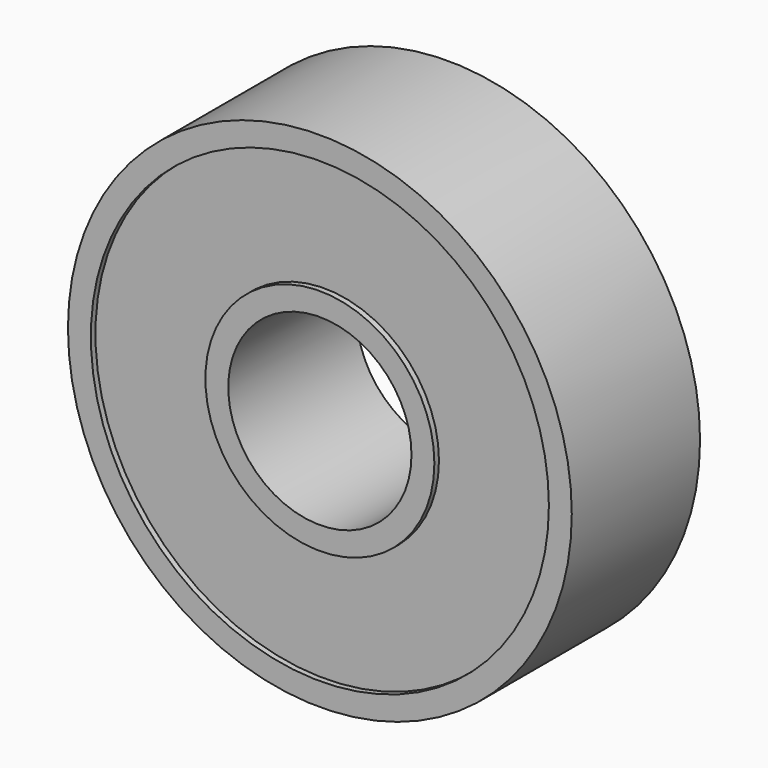
from build123d import *

# Parameters (mm, degrees)
F0_R     = 5
F0_R_2   = 4
F1_DEPTH = 3.5
F0_R_3   = 11
F0_R_4   = 10
F2_DEPTH = 3.25


with BuildPart() as f1:
    # F0 (on Front) → F1 (new body, symmetric)
    with BuildSketch(Plane.XZ):
        Circle(F0_R)
        Circle(F0_R_2, mode=Mode.SUBTRACT)
    extrude(amount=F1_DEPTH, both=True)



with BuildPart() as f1b:
    # F0 (on Front) → F1, piece 2 (new body, symmetric)
    with BuildSketch(Plane.XZ):
        Circle(F0_R_3)
        Circle(F0_R_4, mode=Mode.SUBTRACT)
    extrude(amount=F1_DEPTH, both=True)


with BuildPart() as f1_1:
    add(f1.part)

    add(f1b.part)  # F2 merges F1b
    # F0 (on Front) → F2 (join, symmetric)
    with BuildSketch(Plane.XZ):
        Circle(F0_R_4)
        Circle(F0_R, mode=Mode.SUBTRACT)
    extrude(amount=F2_DEPTH, both=True)


solid = f1_1.part
